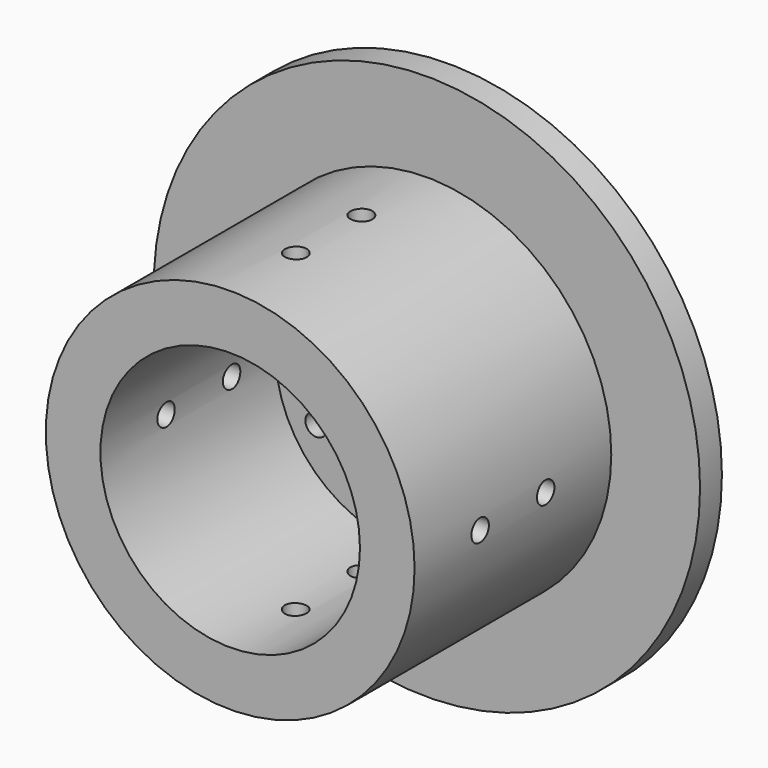
from build123d import *

# Parameters (mm, degrees)
F0_R     = 42.8625
F0_R_2   = 30.1625
F1_DEPTH = 63.5
F0_R_3   = 63.5
F2_DEPTH = 6.35
F0_R_4   = 2.54
F0_R_5   = 14.2875
F3_DEPTH = 12.7
F5_R     = 2.54
F6_DEPTH = 101.6
F8_R     = 2.54
F9_DEPTH = 101.6


with BuildPart() as f1:
    # F0 (on Front) → F1 (new body)
    with BuildSketch(Plane.XZ):
        Circle(F0_R)
        Circle(F0_R_2, mode=Mode.SUBTRACT)
    extrude(amount=F1_DEPTH)

    # F0 (on Front) → F2 (join)
    with BuildSketch(Plane.XZ):
        Circle(F0_R_3)
        Circle(F0_R, mode=Mode.SUBTRACT)
    extrude(amount=F2_DEPTH)

    # F0 (on Front) → F3 (join)
    with BuildSketch(Plane.XZ):
        Circle(F0_R_2)
        with Locations((-20.62223, -11.90625)):
            Circle(F0_R_4, mode=Mode.SUBTRACT)
        with Locations((0, -23.8125)):
            Circle(F0_R_4, mode=Mode.SUBTRACT)
        with Locations((20.62223, -11.90625)):
            Circle(F0_R_4, mode=Mode.SUBTRACT)
        with Locations((-20.62223, 11.90625)):
            Circle(F0_R_4, mode=Mode.SUBTRACT)
        Circle(F0_R_5, mode=Mode.SUBTRACT)
        with Locations((20.62223, 11.90625)):
            Circle(F0_R_4, mode=Mode.SUBTRACT)
        with Locations((0, 23.8125)):
            Circle(F0_R_4, mode=Mode.SUBTRACT)
    extrude(amount=F3_DEPTH)

    # F5 (on offset) → F6 (cut)
    with BuildSketch(Plane.YZ.offset(45.212)):
        with Locations((-25.4, 0)):
            Circle(F5_R)
        with Locations((-44.45, 0)):
            Circle(F5_R)
    extrude(amount=-F6_DEPTH, mode=Mode.SUBTRACT)

    # F8 (on offset) → F9 (cut)
    with BuildSketch(Plane.XY.offset(44.196)):
        with Locations((0, -25.4)):
            Circle(F8_R)
        with Locations((0, -44.45)):
            Circle(F8_R)
    extrude(amount=-F9_DEPTH, mode=Mode.SUBTRACT)


solid = f1.part
